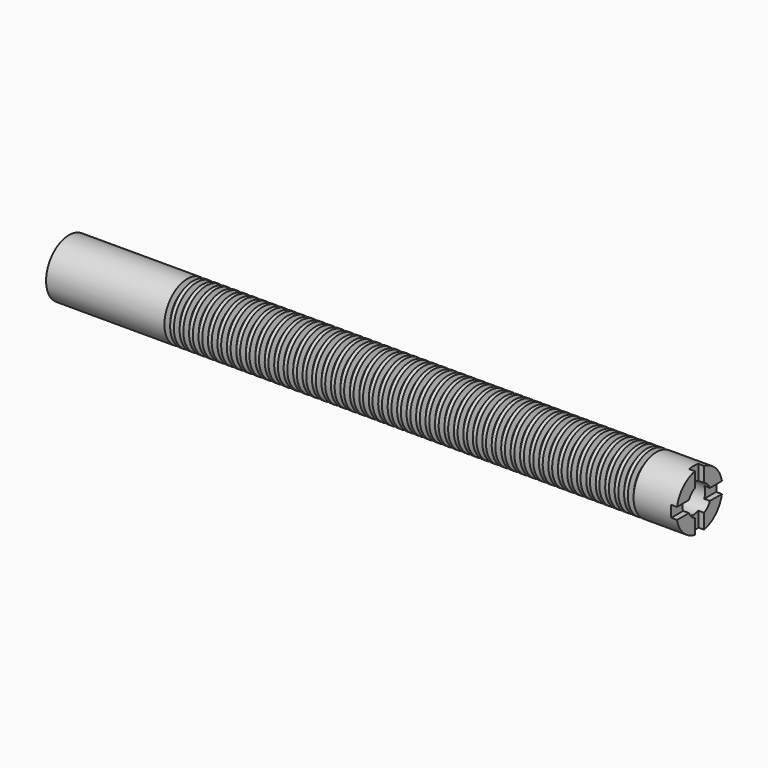
from build123d import *

# Parameters (mm, degrees)
F2_R     = 6.35
F3_DEPTH = 25.4
F4_W     = 5.08
F4_H     = 10.16
F4_W_2   = 10.16
F4_H_2   = 5.08
F5_DEPTH = 2.54


with BuildPart() as f1:
    # F0 (on Front) → F1 (revolve)
    with BuildSketch(Plane.XZ):
        Polygon((0, 12.7), (0, 0), (279.4, 0), (279.4, 12.7), (260.35, 12.7), (259.714352, 10.16), (258.445648, 10.16), (257.81, 12.7), (256.159, 12.7), (255.523352, 10.16), (254.254648, 10.16), (253.619, 12.7), (251.968, 12.7), (251.332352, 10.16), (250.063648, 10.16), (249.428, 12.7), (247.777, 12.7), (247.141352, 10.16), (245.872648, 10.16), (245.237, 12.7), (243.586, 12.7), (242.950352, 10.16), (241.681648, 10.16), (241.046, 12.7), (239.395, 12.7), (238.759352, 10.16), (237.490648, 10.16), (236.855, 12.7), (235.204, 12.7), (234.568352, 10.16), (233.299648, 10.16), (232.664, 12.7), (231.013, 12.7), (230.377352, 10.16), (229.108648, 10.16), (228.473, 12.7), (226.822, 12.7), (226.186352, 10.16), (224.917648, 10.16), (224.282, 12.7), (222.631, 12.7), (221.995352, 10.16), (220.726648, 10.16), (220.091, 12.7), (218.44, 12.7), (217.804352, 10.16), (216.535648, 10.16), (215.9, 12.7), (214.249, 12.7), (213.613352, 10.16), (212.344648, 10.16), (211.709, 12.7), (210.058, 12.7), (209.422352, 10.16), (208.153648, 10.16), (207.518, 12.7), (205.867, 12.7), (205.231352, 10.16), (203.962648, 10.16), (203.327, 12.7), (201.676, 12.7), (201.040352, 10.16), (199.771648, 10.16), (199.136, 12.7), (197.485, 12.7), (196.849352, 10.16), (195.580648, 10.16), (194.945, 12.7), (193.294, 12.7), (192.658352, 10.16), (191.389648, 10.16), (190.754, 12.7), (189.103, 12.7), (188.467352, 10.16), (187.198648, 10.16), (186.563, 12.7), (184.912, 12.7), (184.276352, 10.16), (183.007648, 10.16), (182.372, 12.7), (180.721, 12.7), (180.085352, 10.16), (178.816648, 10.16), (178.181, 12.7), (176.53, 12.7), (175.894352, 10.16), (174.625648, 10.16), (173.99, 12.7), (172.339, 12.7), (171.703352, 10.16), (170.434648, 10.16), (169.799, 12.7), (168.148, 12.7), (167.512352, 10.16), (166.243648, 10.16), (165.608, 12.7), (163.957, 12.7), (163.321352, 10.16), (162.052648, 10.16), (161.417, 12.7), (159.766, 12.7), (159.130352, 10.16), (157.861648, 10.16), (157.226, 12.7), (155.575, 12.7), (154.939352, 10.16), (153.670648, 10.16), (153.035, 12.7), (151.384, 12.7), (150.748352, 10.16), (149.479648, 10.16), (148.844, 12.7), (147.193, 12.7), (146.557352, 10.16), (145.288648, 10.16), (144.653, 12.7), (143.002, 12.7), (142.366352, 10.16), (141.097648, 10.16), (140.462, 12.7), (138.811, 12.7), (138.175352, 10.16), (136.906648, 10.16), (136.271, 12.7), (134.62, 12.7), (133.984352, 10.16), (132.715648, 10.16), (132.08, 12.7), (130.429, 12.7), (129.793352, 10.16), (128.524648, 10.16), (127.889, 12.7), (126.238, 12.7), (125.602352, 10.16), (124.333648, 10.16), (123.698, 12.7), (122.047, 12.7), (121.411352, 10.16), (120.142648, 10.16), (119.507, 12.7), (117.856, 12.7), (117.220352, 10.16), (115.951648, 10.16), (115.316, 12.7), (113.665, 12.7), (113.029352, 10.16), (111.760648, 10.16), (111.125, 12.7), (109.474, 12.7), (108.838352, 10.16), (107.569648, 10.16), (106.934, 12.7), (105.283, 12.7), (104.647352, 10.16), (103.378648, 10.16), (102.743, 12.7), (101.092, 12.7), (100.456352, 10.16), (99.187648, 10.16), (98.552, 12.7), (96.901, 12.7), (96.265352, 10.16), (94.996648, 10.16), (94.361, 12.7), (92.71, 12.7), (92.074352, 10.16), (90.805648, 10.16), (90.17, 12.7), (88.519, 12.7), (87.883352, 10.16), (86.614648, 10.16), (85.979, 12.7), (84.328, 12.7), (83.692352, 10.16), (82.423648, 10.16), (81.788, 12.7), (80.137, 12.7), (79.501352, 10.16), (78.232648, 10.16), (77.597, 12.7), (75.946, 12.7), (75.310352, 10.16), (74.041648, 10.16), (73.406, 12.7), (71.755, 12.7), (71.119352, 10.16), (69.850648, 10.16), (69.215, 12.7), (67.564, 12.7), (66.928352, 10.16), (65.659648, 10.16), (65.024, 12.7), (63.373, 12.7), (62.737352, 10.16), (61.468648, 10.16), (60.833, 12.7), (59.182, 12.7), (58.546352, 10.16), (57.277648, 10.16), (56.642, 12.7), (54.991, 12.7), (54.355352, 10.16), (53.086648, 10.16), (52.451, 12.7), align=None)
    revolve(axis=Axis((139.7, 0, 0), (1, 0, 0)))

    # F2 (on face) → F3 (cut)
    with BuildSketch(Plane.YZ.offset(279.4)):
        Circle(F2_R)
    extrude(amount=-F3_DEPTH, mode=Mode.SUBTRACT)

    # F4 (on face) → F5 (cut)
    with BuildSketch(Plane.YZ.offset(279.4)):
        with Locations((0, 7.62)):
            Rectangle(F4_W, F4_H)
        with Locations((-7.62, 0)):
            Rectangle(F4_W_2, F4_H_2)
        with Locations((7.62, 0)):
            Rectangle(F4_W_2, F4_H_2)
        with Locations((0, -7.62)):
            Rectangle(F4_W, F4_H)
    extrude(amount=-F5_DEPTH, mode=Mode.SUBTRACT)


solid = f1.part
